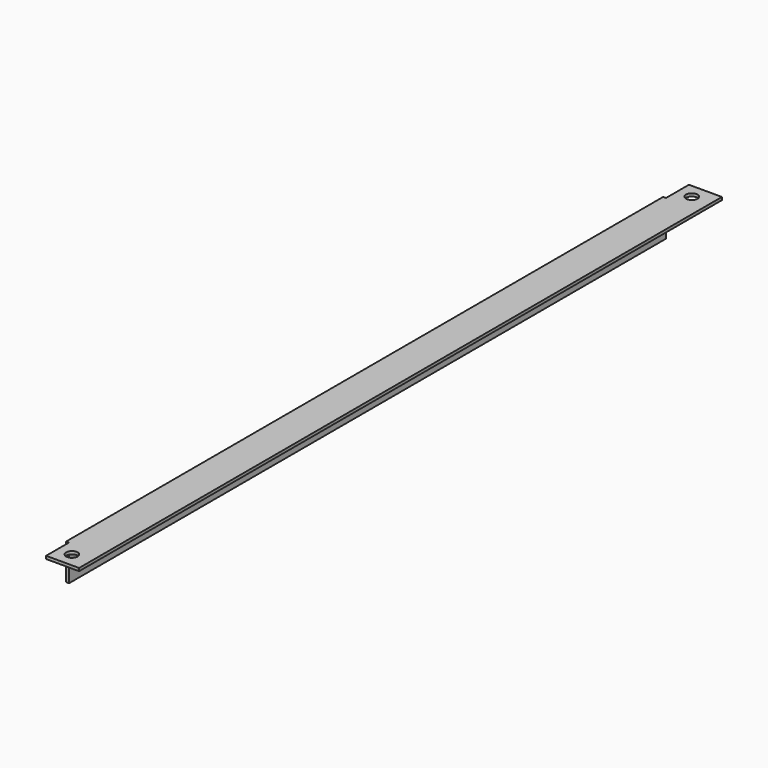
from build123d import *

# Parameters (mm, degrees)
F1_DEPTH = 280
F2_W     = 2
F2_H     = 20
F2_R     = 4
F3_DEPTH = 42


with BuildPart() as f1:
    # F0 (on Front) → F1 (new body, symmetric)
    with BuildSketch(Plane.XZ):
        Polygon((24, 1), (-1, 1), (-1, -24), (1, -24), (1, -1), (24, -1), align=None)
    extrude(amount=F1_DEPTH, both=True)

    # F2 (on face) → F3 (cut)
    with BuildSketch(Plane.XY.offset(1)):
        with Locations((0, -270)):
            Rectangle(F2_W, F2_H)
        with Locations((0, 270)):
            Rectangle(F2_W, F2_H)
        with Locations((11, 270)):
            Circle(F2_R)
        with Locations((11, -270)):
            Circle(F2_R)
    extrude(amount=-F3_DEPTH, mode=Mode.SUBTRACT)


solid = f1.part
